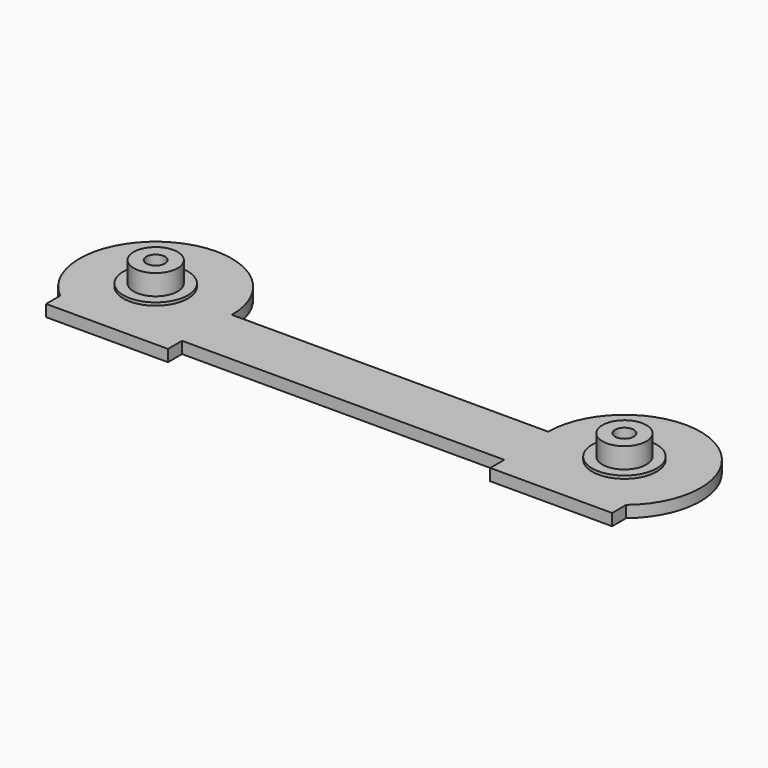
from build123d import *

# Parameters (mm, degrees)
SKETCH_R      = 1.6
PAD_DEPTH     = 2
SKETCH001_R   = 5.5
SKETCH001_R_2 = 1.6
PAD001_DEPTH  = 0.5
SKETCH002_R   = 3.75
SKETCH002_R_2 = 1.6
PAD002_DEPTH  = 3.5


with BuildPart() as part:
    # Sketch → Pad (new body)
    with BuildSketch(Plane.XY):
        with BuildLine():
            ThreePointArc((-27, 0), (-45.523309, 11.768307), (-48.306624, -10))
            Line((-48.306624, -13), (-48.306624, -10))
            Line((-27.5, -13), (-48.306624, -13))
            Line((-27.5, -10), (-27.5, -13))
            Line((-27.5, -10), (27.5, -10))
            Line((27.5, -10), (27.5, -13))
            Line((27.5, -13), (48.306624, -13))
            Line((48.306624, -13), (48.306624, -10))
            ThreePointArc((48.306624, -10), (45.523309, 11.768307), (27, 0))
            Line((-27, 0), (27, 0))
        make_face()
        with Locations((-40, 0)):
            Circle(SKETCH_R, mode=Mode.SUBTRACT)
        with Locations((40, 0)):
            Circle(SKETCH_R, mode=Mode.SUBTRACT)
    extrude(amount=PAD_DEPTH)

    # Sketch001 → Pad001 (new body)
    with BuildSketch(Plane.XY.offset(2)):
        with Locations((-40, 0)):
            Circle(SKETCH001_R)
        with Locations((-40, 0)):
            Circle(SKETCH001_R_2, mode=Mode.SUBTRACT)
        with Locations((40, 0)):
            Circle(SKETCH001_R)
        with Locations((40, 0)):
            Circle(SKETCH001_R_2, mode=Mode.SUBTRACT)
    extrude(amount=PAD001_DEPTH)

    # Sketch002 → Pad002 (new body)
    with BuildSketch(Plane.XY.offset(2.5)):
        with Locations((-40, 0)):
            Circle(SKETCH002_R)
        with Locations((-40, 0)):
            Circle(SKETCH002_R_2, mode=Mode.SUBTRACT)
        with Locations((40, 0)):
            Circle(SKETCH002_R)
        with Locations((40, 0)):
            Circle(SKETCH002_R_2, mode=Mode.SUBTRACT)
    extrude(amount=PAD002_DEPTH)


solid = part.part
